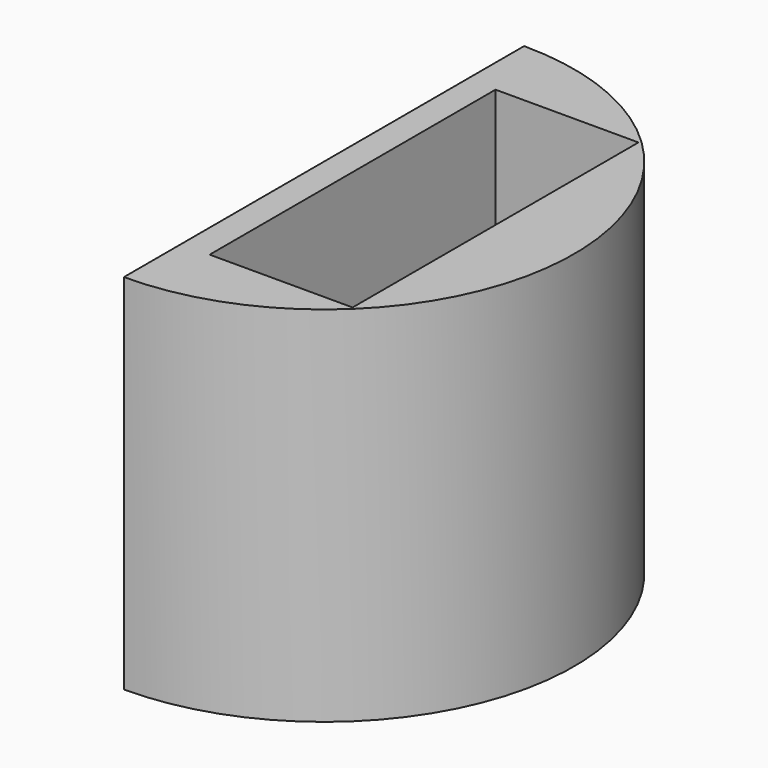
from build123d import *

# Parameters (mm, degrees)
F0_R     = 17.5
F1_DEPTH = 25.4
F2_W     = 60.77839
F2_H     = 43.169699
F3_DEPTH = 25.4
F4_W     = 10
F4_H     = 25
F5_DEPTH = 40


with BuildPart() as f1:
    # F0 (on Top) → F1 (new body)
    with BuildSketch(Plane.XY):
        Circle(F0_R)
    extrude(amount=F1_DEPTH)

    # F2 (on Right) → F3 (cut)
    with BuildSketch(Plane.YZ):
        with Locations((0, 15.174311)):
            Rectangle(F2_W, F2_H)
    extrude(amount=-F3_DEPTH, mode=Mode.SUBTRACT)

    # F4 (on face) → F5 (cut)
    with BuildSketch(Plane.XY.offset(25.4)):
        with Locations((7, 0)):
            Rectangle(F4_W, F4_H)
    extrude(amount=-F5_DEPTH, mode=Mode.SUBTRACT)


solid = f1.part
